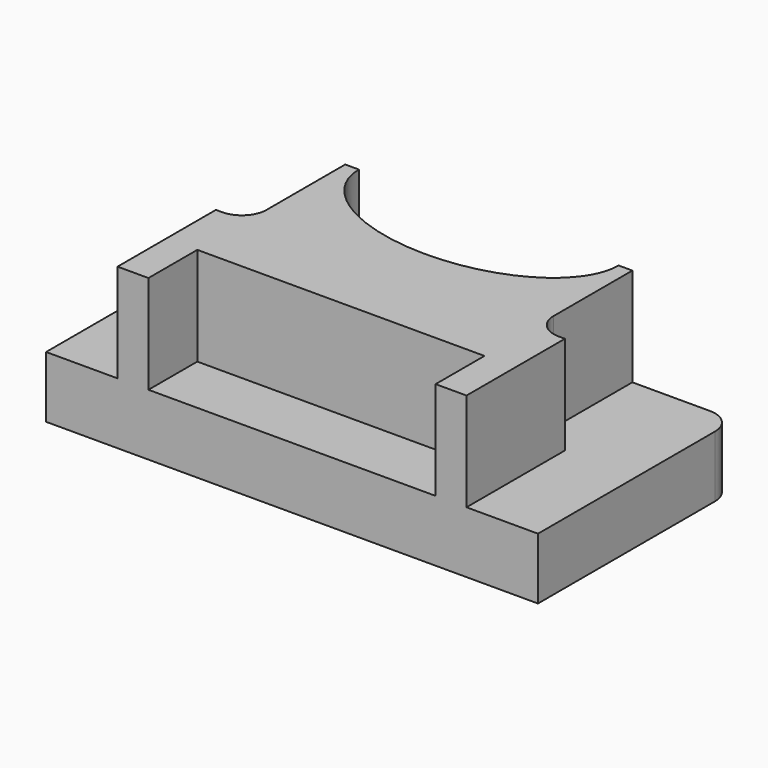
from build123d import *

# Parameters (mm, degrees)
F1_DEPTH = 6.35
F3_DEPTH = 10.16
F4_R     = 2.54


with BuildPart() as f1:
    # F0 (on Top) → F1 (new body)
    with BuildSketch(Plane.XY):
        with BuildLine():
            Line((25.4, -12.7), (25.4, 12.7))
            Line((25.4, 12.7), (13.4078692645, 12.7))
            add(Edge.make_bspline(
                [(-13.4078692645, 12.7), (-13.4078692645, 4.5109884671), (0, 4.5109884671), (13.4078692645, 4.5109884671), (13.4078692645, 12.7)],
                knots=[3.1415926536, 3.1415926536, 3.1415926536, 4.7123889804, 4.7123889804, 6.2831853072, 6.2831853072, 6.2831853072], degree=2, weights=[1, 0.7071067812, 1, 0.7071067812, 1]))
            Line((-13.4078692645, 12.7), (-25.4, 12.7))
            Line((-25.4, 12.7), (-25.4, -12.7))
            Line((-25.4, -12.7), (25.4, -12.7))
        make_face()
    extrude(amount=F1_DEPTH)

    # F2 (on face) → F3 (join)
    with BuildSketch(Plane.XY.offset(6.35)):
        with BuildLine():
            Line((-18.0192738771, -6.3928803429), (-18.0192738771, -12.7))
            Line((-18.0192738771, -12.7), (-14.8282703012, -12.7))
            Line((-14.8282703012, -12.7), (-14.8282703012, -6.3928803429))
            Line((-14.8282703012, -6.3928803429), (0, -6.3928803429))
            Line((0, -6.3928803429), (14.8282703012, -6.3928803429))
            Line((14.8282703012, -6.3928803429), (14.8282703012, -12.7))
            Line((14.8282703012, -12.7), (18.0192738771, -12.7))
            Line((18.0192738771, -12.7), (18.0192738771, -6.3928803429))
            Line((18.0192738771, -6.3928803429), (18.0192738771, 0))
            Line((18.0192738771, 0), (14.8282703012, 0))
            Line((14.8282703012, 0), (14.8282703012, 12.7))
            Line((14.8282703012, 12.7), (13.4078692645, 12.7))
            add(Edge.make_bspline(
                [(-13.4078692645, 12.7), (-13.4078692645, 4.5109884671), (0, 4.5109884671), (13.4078692645, 4.5109884671), (13.4078692645, 12.7)],
                knots=[3.1415926536, 3.1415926536, 3.1415926536, 4.7123889804, 4.7123889804, 6.2831853072, 6.2831853072, 6.2831853072], degree=2, weights=[1, 0.7071067812, 1, 0.7071067812, 1]))
            Line((-13.4078692645, 12.7), (-14.8282703012, 12.7))
            Line((-14.8282703012, 12.7), (-14.8282703012, 0))
            Line((-14.8282703012, 0), (-18.0192738771, 0))
            Line((-18.0192738771, 0), (-18.0192738771, -6.3928803429))
        make_face()
    extrude(amount=F3_DEPTH)

    # F4
    f4_edges = [f1.edges().sort_by_distance(p)[0] for p in [
        (14.82827, 0, 11.43),
        (-14.82827, 0, 11.43),
        (25.4, 12.7, 3.175),
        (-25.4, 12.7, 3.175),
    ]]
    fillet(f4_edges, radius=F4_R)


solid = f1.part
